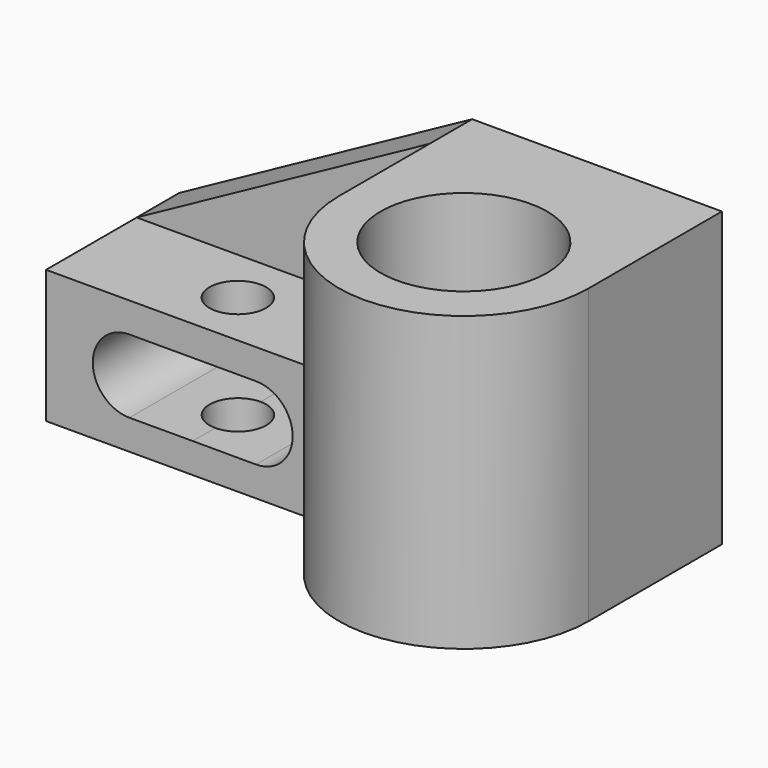
from build123d import *

# Parameters (mm, degrees)
F1_DEPTH  = 50
F3_DEPTH  = 88
F4_R      = 25
F5_DEPTH  = 115
F7_DEPTH  = 50
F8_W      = 16
F8_H      = 48.0000468988
F9_DEPTH  = 88
F11_DEPTH = 27.7
F12_R     = 8.5
F13_DEPTH = 57.3
F15_DEPTH = 109.8


with BuildPart() as f1:
    # F0 (on Front) → F1 (new body)
    with BuildSketch(Plane.XZ):
        Polygon((-74.9091474319, 0), (0, 0), (0, 88), (-75, 88), align=None)
    extrude(amount=F1_DEPTH)

    # F2 (on face) → F3 (join)
    with BuildSketch(Plane.XY.offset(88)):
        with BuildLine():
            Line((0, -50), (-75, -50))
            ThreePointArc((-75, -50), (-37.5, -87.5), (0, -50))
        make_face()
    extrude(amount=-F3_DEPTH)

    # F4 (on face) → F5 (cut)
    with BuildSketch(Plane.XY.offset(88)):
        with Locations((-37.5, -50)):
            Circle(F4_R)
    extrude(amount=-F5_DEPTH, mode=Mode.SUBTRACT)

    # F6 (on face) → F7 (join)
    with BuildSketch(Plane(origin=(0, 0, 0), x_dir=(-1, 0, 0), z_dir=(0, 1, 0))):
        Polygon((74.9504440318, 39.9999786824), (74.9091474319, 0), (162.9091005331, -0.0908525197), (162.950397133, 39.9091261627), align=None)
    extrude(amount=-F7_DEPTH)

    # F8 (on face) → F9 (join)
    with BuildSketch(Plane(origin=(-74.9090675877, 0, -0.077337286), x_dir=(0, -1, 0), z_dir=(-0.9999994671, 0, -0.001032415))):
        with Locations((8, 64.0773607766)):
            Rectangle(F8_W, F8_H)
    extrude(amount=F9_DEPTH)

    # F10 (on face) → F11 (cut)
    with BuildSketch(Plane.XZ.offset(16)):
        Polygon((-162.9999531012, 87.9091474803), (-162.950397133, 39.9091261627), (-75, 88), align=None)
    extrude(amount=-F11_DEPTH, mode=Mode.SUBTRACT)

    # F12 (on face) → F13 (cut)
    with BuildSketch(Plane(origin=(-0.0413764441, 0, 40.0773159683), x_dir=(0.9999994671, 0, 0.001032415), z_dir=(-0.001032415, 0, 0.9999994671))):
        with Locations((-118.9338855071, -33)):
            Circle(F12_R)
    extrude(amount=-F13_DEPTH, mode=Mode.SUBTRACT)

    # F14 (on face) → F15 (cut)
    with BuildSketch(Plane.XZ.offset(50)):
        with BuildLine():
            Line((-137.9184055916, 8.9349530588), (-118.9184157175, 8.9545689437))
            Line((-118.9184157175, 8.9545689437), (-99.9297824083, 8.9349530588))
            ThreePointArc((-99.9297824083, 8.9349530588), (-88.9086009647, 19.9447551389), (-99.9297824083, 30.954557219))
            Line((-99.9297824083, 30.954557219), (-118.9411288474, 30.954557219))
            Line((-118.9411288474, 30.954557219), (-137.9184055916, 30.954557219))
            ThreePointArc((-137.9184055916, 30.954557219), (-148.9282076717, 19.9447551389), (-137.9184055916, 8.9349530588))
        make_face()
    extrude(amount=-F15_DEPTH, mode=Mode.SUBTRACT)


solid = f1.part
